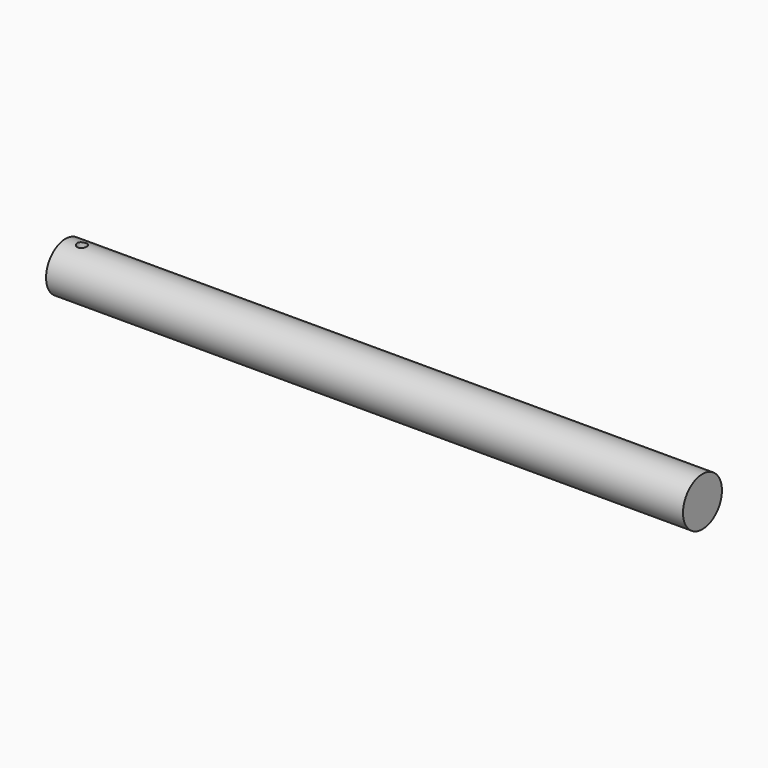
from build123d import *

# Parameters (mm, degrees)
F0_R     = 25
F1_DEPTH = 654.5
F3_DEPTH = 25


with BuildPart() as f1:
    # F0 (on Right) → F1 (new body)
    with BuildSketch(Plane.YZ):
        Circle(F0_R)
    extrude(amount=F1_DEPTH)

    # F2 (on Top) → F3 (cut, symmetric)
    with BuildSketch(Plane.XY):
        with BuildLine():
            ThreePointArc((12, 0), (17, -5), (22, 0))
            ThreePointArc((22, 0), (17, 5), (12, 0))
        make_face()
    extrude(amount=F3_DEPTH, both=True, mode=Mode.SUBTRACT)


solid = f1.part
